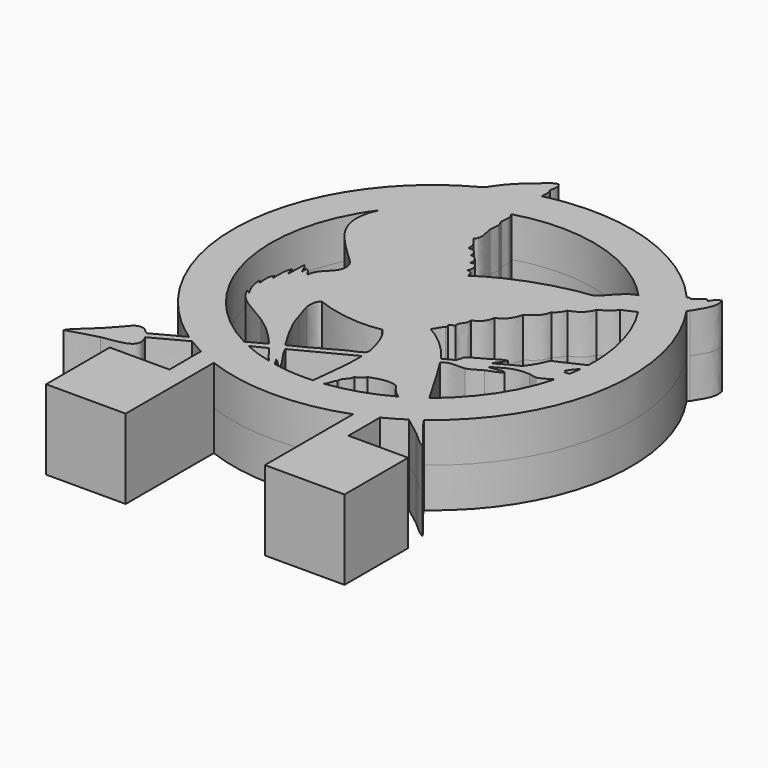
from build123d import *

# Parameters (mm, degrees)
F1_W     = 1
F1_H     = 2.1622609347
F1_H_2   = 0.3057746217
F2_DEPTH = 2


with BuildPart() as f2:
    # F0 (on Top) + F1 (on Top) → F2 (new body, symmetric)
    with BuildSketch(Plane.XY):
        with BuildLine():
            Line((6.007675, -8.091584), (5.975945, -8.053576))
            add(Edge.make_bspline(
                [(5.975945, -8.053576), (8.416981, -6.228471), (10, -3.315931), (10, -0.040487)],
                knots=[0, 0, 0, 0, 1, 1, 1, 1], degree=3))
            add(Edge.make_bspline(
                [(10, -0.040487), (10, 2.058967), (9.348228, 4.008529), (8.238194, 5.619133)],
                knots=[0, 0, 0, 0, 1, 1, 1, 1], degree=3))
            Line((8.238194, 5.619133), (8.326741, 5.725407))
            add(Edge.make_bspline(
                [(8.326741, 5.725407), (8.549357, 6.14517), (8.980671, 6.601783), (8.778404, 7.171438)],
                knots=[0, 0, 0, 0, 1, 1, 1, 1], degree=3))
            add(Edge.make_bspline(
                [(8.778404, 7.171438), (8.52905, 7.151258), (8.468383, 6.942222), (8.35039, 6.790512)],
                knots=[0, 0, 0, 0, 1, 1, 1, 1], degree=3))
            add(Edge.make_bspline(
                [(8.35039, 6.790512), (8.306434, 6.834299), (8.306434, 6.918573), (8.185311, 6.888197)],
                knots=[0, 0, 0, 0, 1, 1, 1, 1], degree=3))
            add(Edge.make_bspline(
                [(8.185311, 6.888197), (8.02002, 6.770332), (7.854771, 6.649039), (7.713299, 6.50744)],
                knots=[0, 0, 0, 0, 1, 1, 1, 1], degree=3))
            add(Edge.make_bspline(
                [(7.713299, 6.50744), (7.691511, 6.610202), (7.566749, 6.562269), (7.519789, 6.540312)],
                knots=[0, 0, 0, 0, 1, 1, 1, 1], degree=3))
            add(Edge.make_bspline(
                [(7.519789, 6.540312), (5.685596, 8.633801), (2.995503, 9.959513), (1e-06, 9.959513)],
                knots=[0, 0, 0, 0, 1, 1, 1, 1], degree=3))
            add(Edge.make_bspline(
                [(1e-06, 9.959513), (-0.795867, 9.959513), (-1.569312, 9.863351), (-2.311958, 9.686679)],
                knots=[0, 0, 0, 0, 1, 1, 1, 1], degree=3))
            Line((-2.311958, 9.686679), (-2.297912, 9.74997))
            add(Edge.make_bspline(
                [(-2.297912, 9.74997), (-2.260894, 9.959175), (-2.274475, 10.154672), (-2.368818, 10.292845)],
                knots=[0, 0, 0, 0, 1, 1, 1, 1], degree=3))
            add(Edge.make_bspline(
                [(-2.368818, 10.292845), (-2.294613, 10.494943), (-2.271133, 10.767988), (-2.415905, 10.909587)],
                knots=[0, 0, 0, 0, 1, 1, 1, 1], degree=3))
            add(Edge.make_bspline(
                [(-2.415905, 10.909587), (-2.675539, 10.8658), (-2.844088, 10.656934), (-3.029517, 10.508523)],
                knots=[0, 0, 0, 0, 1, 1, 1, 1], degree=3))
            add(Edge.make_bspline(
                [(-3.029517, 10.508523), (-3.417212, 10.198502), (-3.78477, 9.864831), (-4.094622, 9.490674)],
                knots=[0, 0, 0, 0, 1, 1, 1, 1], degree=3))
            add(Edge.make_bspline(
                [(-4.094622, 9.490674), (-4.252932, 9.298307), (-4.374225, 9.035542), (-4.546454, 8.897242)],
                knots=[0, 0, 0, 0, 1, 1, 1, 1], degree=3))
            add(Edge.make_bspline(
                [(-4.546454, 8.897242), (-4.576703, 8.872451), (-4.603779, 8.84584), (-4.628909, 8.819399)],
                knots=[0, 0, 0, 0, 1, 1, 1, 1], degree=3))
            add(Edge.make_bspline(
                [(-4.628909, 8.819399), (-7.818082, 7.146308), (-9.999999, 3.803766), (-9.999999, -0.040487)],
                knots=[0, 0, 0, 0, 1, 1, 1, 1], degree=3))
            add(Edge.make_bspline(
                [(-9.999999, -0.040487), (-9.999999, -3.466457), (-8.267587, -6.494536), (-5.633516, -8.297333)],
                knots=[0, 0, 0, 0, 1, 1, 1, 1], degree=3))
            add(Edge.make_bspline(
                [(-5.633516, -8.297333), (-6.001387, -8.489201), (-6.75183, -8.881855), (-7.12515, -9.085949)],
                knots=[0, 0, 0, 0, 1, 1, 1, 1], degree=3))
            add(Edge.make_bspline(
                [(-7.12515, -9.085949), (-7.296855, -9.02183), (-7.344119, -8.809473), (-7.620761, -8.802695)],
                knots=[0, 0, 0, 0, 1, 1, 1, 1], degree=3))
            add(Edge.make_bspline(
                [(-7.620761, -8.802695), (-7.906989, -8.796087), (-8.048618, -9.025299), (-8.237342, -9.251211)],
                knots=[0, 0, 0, 0, 1, 1, 1, 1], degree=3))
            add(Edge.make_bspline(
                [(-8.237342, -9.251211), (-8.412685, -9.466872), (-8.614961, -9.668986), (-8.75659, -9.820858)],
                knots=[0, 0, 0, 0, 1, 1, 1, 1], degree=3))
            add(Edge.make_bspline(
                [(-8.75659, -9.820858), (-9.171057, -10.258961), (-9.602551, -10.515113), (-9.845317, -10.909587)],
                knots=[0, 0, 0, 0, 1, 1, 1, 1], degree=3))
            add(Edge.make_bspline(
                [(-9.845317, -10.909587), (-9.838541, -10.909587), (-9.831766, -10.909587), (-9.821685, -10.909587)],
                knots=[0, 0, 0, 0, 1, 1, 1, 1], degree=3))
            add(Edge.make_bspline(
                [(-9.821685, -10.909587), (-9.390191, -10.808448), (-8.941845, -10.616252), (-8.331707, -10.4814)],
                knots=[0, 0, 0, 0, 1, 1, 1, 1], degree=3))
            add(Edge.make_bspline(
                [(-8.331707, -10.4814), (-7.644228, -10.332997), (-6.447419, -10.376958), (-6.959889, -9.39267)],
                knots=[0, 0, 0, 0, 1, 1, 1, 1], degree=3))
            add(Edge.make_bspline(
                [(-6.959889, -9.39267), (-6.416188, -9.091073), (-5.859428, -8.802365), (-5.30598, -8.510849)],
                knots=[0, 0, 0, 0, 1, 1, 1, 1], degree=3))
            add(Edge.make_bspline(
                [(-5.30598, -8.510849), (-3.766917, -9.478442), (-1.94842, -10.040487), (1e-06, -10.040487)],
                knots=[0, 0, 0, 0, 1, 1, 1, 1], degree=3))
            add(Edge.make_bspline(
                [(1e-06, -10.040487), (2.029226, -10.040487), (3.917952, -9.431343), (5.49636, -8.388558)],
                knots=[0, 0, 0, 0, 1, 1, 1, 1], degree=3))
            Line((5.49636, -8.388558), (5.535705, -8.425242))
            add(Edge.make_bspline(
                [(5.535705, -8.425242), (5.822077, -8.657927), (6.135736, -8.870123), (6.435688, -9.109582)],
                knots=[0, 0, 0, 0, 1, 1, 1, 1], degree=3))
            add(Edge.make_bspline(
                [(6.435688, -9.109582), (6.732341, -9.345571), (6.981695, -9.662374), (7.308765, -9.797225)],
                knots=[0, 0, 0, 0, 1, 1, 1, 1], degree=3))
            add(Edge.make_bspline(
                [(7.308765, -9.797225), (6.951488, -9.247737), (6.378363, -8.708331), (6.007675, -8.091584)],
                knots=[0, 0, 0, 0, 1, 1, 1, 1], degree=3))
        make_face()
        with BuildLine():
            add(Edge.make_bspline(
                [(-2.581196, -7.073587), (-2.353799, -7.360315), (-2.157455, -7.678272), (-1.89469, -7.929796)],
                knots=[0, 0, 0, 0, 1, 1, 1, 1], degree=3))
            add(Edge.make_bspline(
                [(-1.89469, -7.929796), (-2.391113, -7.81048), (-2.869725, -7.645553), (-3.326338, -7.439474)],
                knots=[0, 0, 0, 0, 1, 1, 1, 1], degree=3))
            add(Edge.make_bspline(
                [(-3.326338, -7.439474), (-3.07893, -7.311396), (-2.758671, -7.149113), (-2.581196, -7.073587)],
                knots=[0, 0, 0, 0, 1, 1, 1, 1], degree=3))
        make_face(mode=Mode.SUBTRACT)
        with BuildLine():
            add(Edge.make_bspline(
                [(-1.751906, -7.666871), (-1.612592, -7.71628), (-1.490453, -7.93492), (-1.319408, -8.046469)],
                knots=[0, 0, 0, 0, 1, 1, 1, 1], degree=3))
            add(Edge.make_bspline(
                [(-1.319408, -8.046469), (-1.399917, -8.033248), (-1.479876, -8.019037), (-1.559539, -8.003503)],
                knots=[0, 0, 0, 0, 1, 1, 1, 1], degree=3))
            add(Edge.make_bspline(
                [(-1.559539, -8.003503), (-1.617711, -7.885836), (-1.682989, -7.774617), (-1.751906, -7.666871)],
                knots=[0, 0, 0, 0, 1, 1, 1, 1], degree=3))
        make_face(mode=Mode.SUBTRACT)
        with BuildLine():
            add(Edge.make_bspline(
                [(0.685152, -5.324172), (0.72234, -6.374724), (0.548841, -7.208769), (0.468671, -8.140998)],
                knots=[0, 0, 0, 0, 1, 1, 1, 1], degree=3))
            add(Edge.make_bspline(
                [(0.468671, -8.140998), (0.313322, -8.149756), (0.157338, -8.155374), (1e-06, -8.155374)],
                knots=[0, 0, 0, 0, 1, 1, 1, 1], degree=3))
            add(Edge.make_bspline(
                [(1e-06, -8.155374), (-0.424375, -8.155374), (-0.841008, -8.122324), (-1.248037, -8.05936)],
                knots=[0, 0, 0, 0, 1, 1, 1, 1], degree=3))
            add(Edge.make_bspline(
                [(-1.248037, -8.05936), (-1.460077, -7.569202), (-1.837365, -7.244302), (-2.038447, -6.743234)],
                knots=[0, 0, 0, 0, 1, 1, 1, 1], degree=3))
            add(Edge.make_bspline(
                [(-2.038447, -6.743234), (-1.104577, -6.295061), (-0.245249, -5.772324), (0.685152, -5.324172)],
                knots=[0, 0, 0, 0, 1, 1, 1, 1], degree=3))
        make_face(mode=Mode.SUBTRACT)
        with BuildLine():
            add(Edge.make_bspline(
                [(-2.817181, -6.790333), (-3.101903, -6.95609), (-3.395255, -7.11077), (-3.692881, -7.262811)],
                knots=[0, 0, 0, 0, 1, 1, 1, 1], degree=3))
            add(Edge.make_bspline(
                [(-3.692881, -7.262811), (-6.315212, -5.916461), (-8.114887, -3.185543), (-8.114887, -0.040487)],
                knots=[0, 0, 0, 0, 1, 1, 1, 1], degree=3))
            add(Edge.make_bspline(
                [(-8.114887, -0.040487), (-8.114887, 1.775895), (-7.514995, 3.454739), (-6.502946, 4.808374)],
                knots=[0, 0, 0, 0, 1, 1, 1, 1], degree=3))
            add(Edge.make_bspline(
                [(-6.502946, 4.808374), (-6.554674, 4.68412), (-6.637633, 4.535709), (-6.673496, 4.424147)],
                knots=[0, 0, 0, 0, 1, 1, 1, 1], degree=3))
            add(Edge.make_bspline(
                [(-6.673496, 4.424147), (-7.195878, 2.850054), (-5.96222, 1.889403), (-5.159896, 1.090405)],
                knots=[0, 0, 0, 0, 1, 1, 1, 1], degree=3))
            add(Edge.make_bspline(
                [(-5.159896, 1.090405), (-4.9171, 0.844478), (-4.543154, 0.605024), (-4.522805, 0.237635)],
                knots=[0, 0, 0, 0, 1, 1, 1, 1], degree=3))
            add(Edge.make_bspline(
                [(-4.522805, 0.237635), (-4.482487, -0.480219), (-5.26782, -0.527518), (-5.301496, -1.252184)],
                knots=[0, 0, 0, 0, 1, 1, 1, 1], degree=3))
            add(Edge.make_bspline(
                [(-5.301496, -1.252184), (-5.436199, -1.174678), (-5.449568, -0.975669), (-5.611559, -0.921813)],
                knots=[0, 0, 0, 0, 1, 1, 1, 1], degree=3))
            add(Edge.make_bspline(
                [(-5.611559, -0.921813), (-5.692534, -0.938651), (-5.604748, -1.073524), (-5.635166, -1.181447)],
                knots=[0, 0, 0, 0, 1, 1, 1, 1], degree=3))
            add(Edge.make_bspline(
                [(-5.635166, -1.181447), (-5.753159, -1.039806), (-5.76657, -0.797052), (-5.918424, -0.685998)],
                knots=[0, 0, 0, 0, 1, 1, 1, 1], degree=3))
            add(Edge.make_bspline(
                [(-5.918424, -0.685998), (-5.901239, -1.033037), (-5.958586, -1.30604), (-5.941892, -1.656548)],
                knots=[0, 0, 0, 0, 1, 1, 1, 1], degree=3))
            add(Edge.make_bspline(
                [(-5.941892, -1.656548), (-6.046503, -1.595923), (-5.99246, -1.376945), (-6.059888, -1.275791)],
                knots=[0, 0, 0, 0, 1, 1, 1, 1], degree=3))
            add(Edge.make_bspline(
                [(-6.059888, -1.275791), (-6.221511, -1.498238), (-6.201513, -2.010525), (-6.177881, -2.340896)],
                knots=[0, 0, 0, 0, 1, 1, 1, 1], degree=3))
            add(Edge.make_bspline(
                [(-6.177881, -2.340896), (-6.208126, -2.378083), (-6.231758, -2.209492), (-6.225145, -2.128518)],
                knots=[0, 0, 0, 0, 1, 1, 1, 1], degree=3))
            add(Edge.make_bspline(
                [(-6.225145, -2.128518), (-6.42726, -2.236442), (-6.36314, -2.650917), (-6.343142, -2.910551)],
                knots=[0, 0, 0, 0, 1, 1, 1, 1], degree=3))
            add(Edge.make_bspline(
                [(-6.343142, -2.910551), (-6.36314, -3.028544), (-6.417178, -2.826404), (-6.461139, -2.816166)],
                knots=[0, 0, 0, 0, 1, 1, 1, 1], degree=3))
            add(Edge.make_bspline(
                [(-6.461139, -2.816166), (-6.477829, -3.301716), (-6.292243, -3.594899), (-6.130785, -3.90509)],
                knots=[0, 0, 0, 0, 1, 1, 1, 1], degree=3))
            add(Edge.make_bspline(
                [(-6.130785, -3.90509), (-6.208126, -3.88144), (-6.24184, -3.810535), (-6.31951, -3.787097)],
                knots=[0, 0, 0, 0, 1, 1, 1, 1], degree=3))
            add(Edge.make_bspline(
                [(-6.31951, -3.787097), (-6.002542, -4.579157), (-5.08916, -4.882578), (-4.381163, -5.347779)],
                knots=[0, 0, 0, 0, 1, 1, 1, 1], degree=3))
            add(Edge.make_bspline(
                [(-4.381163, -5.347779), (-3.747583, -5.762424), (-3.268844, -6.251105), (-2.817181, -6.790333)],
                knots=[0, 0, 0, 0, 1, 1, 1, 1], degree=3))
        make_face(mode=Mode.SUBTRACT)
        with BuildLine():
            add(Edge.make_bspline(
                [(-3.363187, -4.235418), (-3.440861, -3.942108), (-3.585803, -3.628575), (-3.622821, -3.382521)],
                knots=[0, 0, 0, 0, 1, 1, 1, 1], degree=3))
            add(Edge.make_bspline(
                [(-3.622821, -3.382521), (-3.666608, -3.089169), (-3.612583, -2.799328), (-3.433923, -2.698173)],
                knots=[0, 0, 0, 0, 1, 1, 1, 1], degree=3))
            add(Edge.make_bspline(
                [(-3.433923, -2.698173), (-2.547478, -3.045382), (-1.273464, -3.308316), (-0.096839, -3.0758)],
                knots=[0, 0, 0, 0, 1, 1, 1, 1], degree=3))
            add(Edge.make_bspline(
                [(-0.096839, -3.0758), (0.210052, -3.382521), (0.408511, -3.814004), (0.543722, -4.377059)],
                knots=[0, 0, 0, 0, 1, 1, 1, 1], degree=3))
            add(Edge.make_bspline(
                [(0.543722, -4.377059), (0.57744, -4.525301), (0.675083, -4.798304), (0.638065, -4.922896)],
                knots=[0, 0, 0, 0, 1, 1, 1, 1], degree=3))
            add(Edge.make_bspline(
                [(0.638065, -4.922896), (0.58404, -5.081376), (0.122139, -5.219718), (-0.073189, -5.324172)],
                knots=[0, 0, 0, 0, 1, 1, 1, 1], degree=3))
            add(Edge.make_bspline(
                [(-0.073189, -5.324172), (-0.774545, -5.701587), (-1.593596, -6.180369), (-2.250825, -6.483621)],
                knots=[0, 0, 0, 0, 1, 1, 1, 1], degree=3))
            add(Edge.make_bspline(
                [(-2.250825, -6.483621), (-2.594565, -5.920734), (-3.137271, -5.071307), (-3.363187, -4.235418)],
                knots=[0, 0, 0, 0, 1, 1, 1, 1], degree=3))
        make_face(mode=Mode.SUBTRACT)
        with BuildLine():
            add(Edge.make_bspline(
                [(3.310982, -6.459971), (3.474073, -6.731997), (3.683955, -6.959559), (3.963262, -7.118043)],
                knots=[0, 0, 0, 0, 1, 1, 1, 1], degree=3))
            add(Edge.make_bspline(
                [(3.963262, -7.118043), (3.064082, -7.623405), (2.059813, -7.961856), (0.991747, -8.092579)],
                knots=[0, 0, 0, 0, 1, 1, 1, 1], degree=3))
            add(Edge.make_bspline(
                [(0.991747, -8.092579), (1.011208, -8.063988), (1.02758, -8.039196), (1.039172, -8.020852)],
                knots=[0, 0, 0, 0, 1, 1, 1, 1], degree=3))
            add(Edge.make_bspline(
                [(1.039172, -8.020852), (1.130046, -7.875758), (1.126746, -7.670175), (1.251338, -7.572341)],
                knots=[0, 0, 0, 0, 1, 1, 1, 1], degree=3))
            add(Edge.make_bspline(
                [(1.251338, -7.572341), (1.2378, -7.235375), (1.544691, -7.218521), (1.561529, -6.90833)],
                knots=[0, 0, 0, 0, 1, 1, 1, 1], degree=3))
            add(Edge.make_bspline(
                [(1.561529, -6.90833), (1.73672, -6.841067), (1.901799, -6.763397), (1.962466, -6.577964)],
                knots=[0, 0, 0, 0, 1, 1, 1, 1], degree=3))
            add(Edge.make_bspline(
                [(1.962466, -6.577964), (2.394118, -6.433022), (2.849081, -6.264474), (3.310982, -6.459971)],
                knots=[0, 0, 0, 0, 1, 1, 1, 1], degree=3))
        make_face(mode=Mode.SUBTRACT)
        with BuildLine():
            add(Edge.make_bspline(
                [(7.167123, -2.482538), (7.281985, -2.471284), (7.569372, -2.308024), (7.837595, -2.141083)],
                knots=[0, 0, 0, 0, 1, 1, 1, 1], degree=3))
            add(Edge.make_bspline(
                [(7.837595, -2.141083), (7.372732, -3.874164), (6.346803, -5.379001), (4.967361, -6.450579)],
                knots=[0, 0, 0, 0, 1, 1, 1, 1], degree=3))
            add(Edge.make_bspline(
                [(4.967361, -6.450579), (4.458204, -5.582791), (3.971004, -4.692707), (3.428805, -3.857791)],
                knots=[0, 0, 0, 0, 1, 1, 1, 1], degree=3))
            add(Edge.make_bspline(
                [(3.428805, -3.857791), (3.691739, -3.520694), (4.072835, -3.682473), (4.49408, -3.618506)],
                knots=[0, 0, 0, 0, 1, 1, 1, 1], degree=3))
            add(Edge.make_bspline(
                [(4.49408, -3.618506), (4.723465, -3.584788), (4.96935, -3.375921), (5.205335, -3.264529)],
                knots=[0, 0, 0, 0, 1, 1, 1, 1], degree=3))
            add(Edge.make_bspline(
                [(5.205335, -3.264529), (5.471738, -3.139936), (5.754979, -3.09598), (5.913332, -2.910551)],
                knots=[0, 0, 0, 0, 1, 1, 1, 1], degree=3))
            add(Edge.make_bspline(
                [(5.913332, -2.910551), (5.714322, -2.812866), (5.380694, -2.971176), (5.110991, -2.957808)],
                knots=[0, 0, 0, 0, 1, 1, 1, 1], degree=3))
            add(Edge.make_bspline(
                [(5.110991, -2.957808), (5.606441, -2.698173), (5.940069, -2.357734), (6.766059, -2.411801)],
                knots=[0, 0, 0, 0, 1, 1, 1, 1], degree=3))
            add(Edge.make_bspline(
                [(6.766059, -2.411801), (6.89742, -2.42187), (7.042362, -2.496076), (7.167123, -2.482538)],
                knots=[0, 0, 0, 0, 1, 1, 1, 1], degree=3))
        make_face(mode=Mode.SUBTRACT)
        with BuildLine():
            add(Edge.make_bspline(
                [(7.689692, -1.326347), (7.785389, -1.127084), (7.929315, -0.973723), (8.076372, -0.824466)],
                knots=[0, 0, 0, 0, 1, 1, 1, 1], degree=3))
            add(Edge.make_bspline(
                [(8.076372, -0.824466), (8.057207, -1.022629), (8.029793, -1.218296), (7.996582, -1.412144)],
                knots=[0, 0, 0, 0, 1, 1, 1, 1], degree=3))
            add(Edge.make_bspline(
                [(7.996582, -1.412144), (7.891451, -1.430632), (7.806203, -1.443705), (7.760428, -1.444382)],
                knots=[0, 0, 0, 0, 1, 1, 1, 1], degree=3))
            add(Edge.make_bspline(
                [(7.760428, -1.444382), (7.72671, -1.413963), (7.750317, -1.326347), (7.689692, -1.326347)],
                knots=[0, 0, 0, 0, 1, 1, 1, 1], degree=3))
        make_face(mode=Mode.SUBTRACT)
        with BuildLine():
            add(Edge.make_bspline(
                [(6.125498, 4.07017), (6.30217, 4.127368), (6.57898, 4.256572), (6.806715, 4.369445)],
                knots=[0, 0, 0, 0, 1, 1, 1, 1], degree=3))
            add(Edge.make_bspline(
                [(6.806715, 4.369445), (7.632832, 3.098773), (8.114913, 1.584839), (8.114913, -0.040487)],
                knots=[0, 0, 0, 0, 1, 1, 1, 1], degree=3))
            add(Edge.make_bspline(
                [(8.114913, -0.040487), (8.114913, -0.154503), (8.110936, -0.267545), (8.106283, -0.380419)],
                knots=[0, 0, 0, 0, 1, 1, 1, 1], degree=3))
            add(Edge.make_bspline(
                [(8.106283, -0.380419), (7.639432, -0.587678), (7.203507, -0.828443), (6.718803, -1.016156)],
                knots=[0, 0, 0, 0, 1, 1, 1, 1], degree=3))
            add(Edge.make_bspline(
                [(6.718803, -1.016156), (6.570392, -1.410663), (6.368125, -1.754403), (6.125498, -2.057824)],
                knots=[0, 0, 0, 0, 1, 1, 1, 1], degree=3))
            add(Edge.make_bspline(
                [(6.125498, -2.057824), (5.758152, -2.236442), (5.397363, -2.418401), (5.063735, -2.627437)],
                knots=[0, 0, 0, 0, 1, 1, 1, 1], degree=3))
            add(Edge.make_bspline(
                [(5.063735, -2.627437), (5.100753, -2.452289), (5.346976, -2.280229), (5.417713, -2.057824)],
                knots=[0, 0, 0, 0, 1, 1, 1, 1], degree=3))
            add(Edge.make_bspline(
                [(5.417713, -2.057824), (5.141367, -2.104911), (4.895144, -2.310647), (4.635679, -2.459058)],
                knots=[0, 0, 0, 0, 1, 1, 1, 1], degree=3))
            add(Edge.make_bspline(
                [(4.635679, -2.459058), (4.379726, -2.607299), (4.096442, -2.728592), (3.880468, -2.910551)],
                knots=[0, 0, 0, 0, 1, 1, 1, 1], degree=3))
            add(Edge.make_bspline(
                [(3.880468, -2.910551), (3.884106, -3.0758), (3.806432, -3.153305), (3.782783, -3.288178)],
                knots=[0, 0, 0, 0, 1, 1, 1, 1], degree=3))
            add(Edge.make_bspline(
                [(3.782783, -3.288178), (3.604165, -3.385821), (3.428805, -3.486976), (3.240077, -3.571419)],
                knots=[0, 0, 0, 0, 1, 1, 1, 1], degree=3))
            add(Edge.make_bspline(
                [(3.240077, -3.571419), (2.738027, -2.870064), (2.131184, -2.27016), (1.345724, -1.845446)],
                knots=[0, 0, 0, 0, 1, 1, 1, 1], degree=3))
            add(Edge.make_bspline(
                [(1.345724, -1.845446), (1.487323, -1.700504), (1.547991, -1.477888), (1.703171, -1.346527)],
                knots=[0, 0, 0, 0, 1, 1, 1, 1], degree=3))
            add(Edge.make_bspline(
                [(1.703171, -1.346527), (1.743658, -1.30604), (1.72682, -1.201585), (1.679691, -1.181447)],
                knots=[0, 0, 0, 0, 1, 1, 1, 1], degree=3))
            add(Edge.make_bspline(
                [(1.679691, -1.181447), (1.73342, -1.093662), (1.851412, -1.070055), (1.915379, -0.99255)],
                knots=[0, 0, 0, 0, 1, 1, 1, 1], degree=3))
            add(Edge.make_bspline(
                [(1.915379, -0.99255), (1.898499, -0.669117), (2.188679, -0.652279), (2.127715, -0.284722)],
                knots=[0, 0, 0, 0, 1, 1, 1, 1], degree=3))
            add(Edge.make_bspline(
                [(2.127715, -0.284722), (2.451443, -0.163429), (2.67406, 0.055718), (2.721147, 0.450013)],
                knots=[0, 0, 0, 0, 1, 1, 1, 1], degree=3))
            add(Edge.make_bspline(
                [(2.721147, 0.450013), (3.095135, 0.608493), (3.3414, 0.901845), (3.428805, 1.349997)],
                knots=[0, 0, 0, 0, 1, 1, 1, 1], degree=3))
            add(Edge.make_bspline(
                [(3.428805, 1.349997), (3.742465, 1.572613), (4.092804, 1.761342), (4.163709, 2.226373)],
                knots=[0, 0, 0, 0, 1, 1, 1, 1], degree=3))
            add(Edge.make_bspline(
                [(4.163709, 2.226373), (4.349138, 2.337766), (4.487438, 2.499546), (4.564816, 2.721992)],
                knots=[0, 0, 0, 0, 1, 1, 1, 1], degree=3))
            add(Edge.make_bspline(
                [(4.564816, 2.721992), (4.972988, 2.860165), (5.293078, 3.082739), (5.417713, 3.503983)],
                knots=[0, 0, 0, 0, 1, 1, 1, 1], degree=3))
            add(Edge.make_bspline(
                [(5.417713, 3.503983), (5.711023, 3.635556), (5.987368, 3.787267), (6.125498, 4.07017)],
                knots=[0, 0, 0, 0, 1, 1, 1, 1], degree=3))
        make_face(mode=Mode.SUBTRACT)
        with BuildLine():
            add(Edge.make_bspline(
                [(-2.156482, 7.45468), (-2.17167, 7.578976), (-2.23826, 7.657454), (-2.254633, 7.75332)],
                knots=[0, 0, 0, 0, 1, 1, 1, 1], degree=3))
            add(Edge.make_bspline(
                [(-2.254633, 7.75332), (-1.538217, 7.960875), (-0.782329, 8.074426), (1e-06, 8.074426)],
                knots=[0, 0, 0, 0, 1, 1, 1, 1], degree=3))
            add(Edge.make_bspline(
                [(1e-06, 8.074426), (2.342039, 8.074426), (4.454396, 7.075911), (5.936939, 5.483456)],
                knots=[0, 0, 0, 0, 1, 1, 1, 1], degree=3))
            add(Edge.make_bspline(
                [(5.936939, 5.483456), (5.627594, 5.419701), (5.428924, 5.204192), (5.205335, 4.993802)],
                knots=[0, 0, 0, 0, 1, 1, 1, 1], degree=3))
            add(Edge.make_bspline(
                [(5.205335, 4.993802), (4.999768, 4.798305), (4.800801, 4.484814), (4.564816, 4.37706)],
                knots=[0, 0, 0, 0, 1, 1, 1, 1], degree=3))
            add(Edge.make_bspline(
                [(4.564816, 4.37706), (4.376087, 4.292786), (4.079435, 4.309624), (3.833339, 4.259068)],
                knots=[0, 0, 0, 0, 1, 1, 1, 1], degree=3))
            add(Edge.make_bspline(
                [(3.833339, 4.259068), (2.266057, 3.955646), (0.789437, 3.369153), (-0.332824, 2.604)],
                knots=[0, 0, 0, 0, 1, 1, 1, 1], degree=3))
            add(Edge.make_bspline(
                [(-0.332824, 2.604), (-0.356473, 2.799498), (-0.413629, 2.964746), (-0.639545, 2.957977)],
                knots=[0, 0, 0, 0, 1, 1, 1, 1], degree=3))
            add(Edge.make_bspline(
                [(-0.639545, 2.957977), (-0.494603, 3.210673), (-0.595927, 3.645625), (-0.949566, 3.527633)],
                knots=[0, 0, 0, 0, 1, 1, 1, 1], degree=3))
            add(Edge.make_bspline(
                [(-0.949566, 3.527633), (-0.865461, 3.793867), (-1.098146, 4.07017), (-1.327193, 4.023252)],
                knots=[0, 0, 0, 0, 1, 1, 1, 1], degree=3))
            add(Edge.make_bspline(
                [(-1.327193, 4.023252), (-1.3442, 4.306155), (-1.445185, 4.501652), (-1.799163, 4.447796)],
                knots=[0, 0, 0, 0, 1, 1, 1, 1], degree=3))
            add(Edge.make_bspline(
                [(-1.799163, 4.447796), (-1.714888, 4.795005), (-1.974523, 5.000741), (-2.132833, 5.1827)],
                knots=[0, 0, 0, 0, 1, 1, 1, 1], degree=3))
            add(Edge.make_bspline(
                [(-2.132833, 5.1827), (-1.866599, 5.472584), (-2.068866, 5.83663), (-2.109184, 6.200719)],
                knots=[0, 0, 0, 0, 1, 1, 1, 1], degree=3))
            add(Edge.make_bspline(
                [(-2.109184, 6.200719), (-2.126233, 6.375867), (-2.055497, 6.561296), (-2.085577, 6.743425)],
                knots=[0, 0, 0, 0, 1, 1, 1, 1], degree=3))
            add(Edge.make_bspline(
                [(-2.085577, 6.743425), (-2.095815, 6.830999), (-2.169851, 6.915273), (-2.17992, 7.006317)],
                knots=[0, 0, 0, 0, 1, 1, 1, 1], degree=3))
            add(Edge.make_bspline(
                [(-2.17992, 7.006317), (-2.196969, 7.154558), (-2.136471, 7.313038), (-2.156482, 7.45468)],
                knots=[0, 0, 0, 0, 1, 1, 1, 1], degree=3))
        make_face(mode=Mode.SUBTRACT)
    with BuildSketch(Plane.XY):
        Polygon((-4.5, -10.944372043), (-7.5, -10.944372043), (-7.5, -14.944372043), (-3.5, -14.944372043), (-3.5, -11.2501466647), (-4.5, -11.2501466647), align=None)
        with Locations((-4, -9.8632415757)):
            Rectangle(F1_W, F1_H)
        with Locations((-4, -11.0972593538)):
            Rectangle(F1_W, F1_H_2)
        Polygon((3.5, -14.944372043), (7.5, -14.944372043), (7.5, -10.944372043), (4.5, -10.944372043), (4.5, -11.2501466647), (3.5, -11.2501466647), align=None)
        with Locations((4, -11.0972593538)):
            Rectangle(F1_W, F1_H_2)
        with Locations((4, -9.8632415757)):
            Rectangle(F1_W, F1_H)
    extrude(amount=F2_DEPTH, both=True)


solid = f2.part
